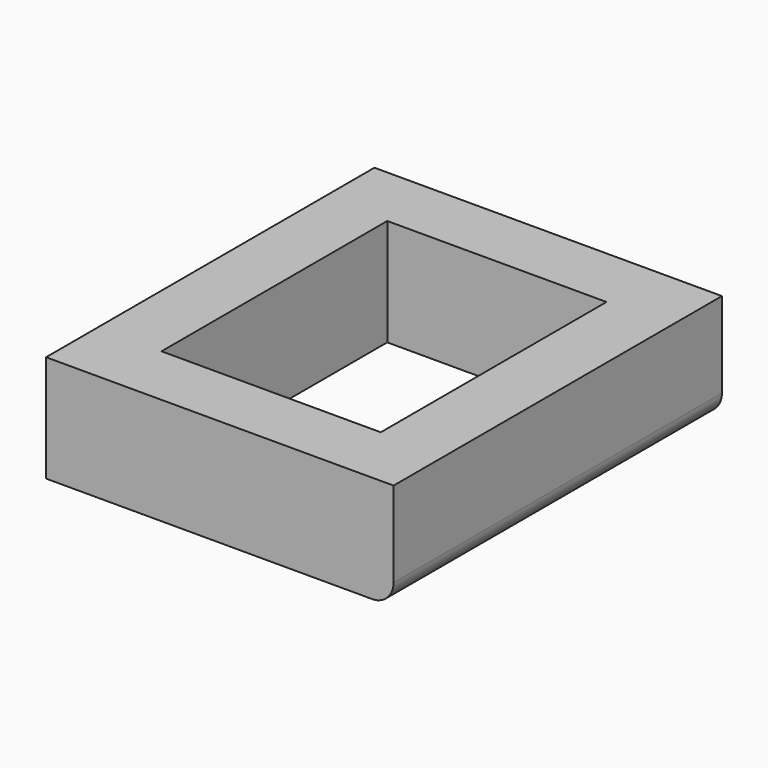
from build123d import *

# Parameters (mm, degrees)
F0_W     = 82.585936
F0_H     = 97.54353
F1_DEPTH = 25.4
F2_W     = 52.105936
F2_H     = 67.06353
F3_DEPTH = 25.4
F4_R     = 5.08


with BuildPart() as f1:
    # F0 (on Top) → F1 (new body)
    with BuildSketch(Plane.XY):
        with Locations((-11.342247, 4.783943)):
            Rectangle(F0_W, F0_H)
    extrude(amount=F1_DEPTH)

    # F2 (on face) → F3 (cut)
    with BuildSketch(Plane.XY.offset(25.4)):
        with Locations((-11.342247, 4.783943)):
            Rectangle(F2_W, F2_H)
    extrude(amount=-F3_DEPTH, mode=Mode.SUBTRACT)

    # F4
    f4_edges = [f1.edges().sort_by_distance(p)[0] for p in [
        (29.950721, 4.783943, 0),
    ]]
    fillet(f4_edges, radius=F4_R)


solid = f1.part
